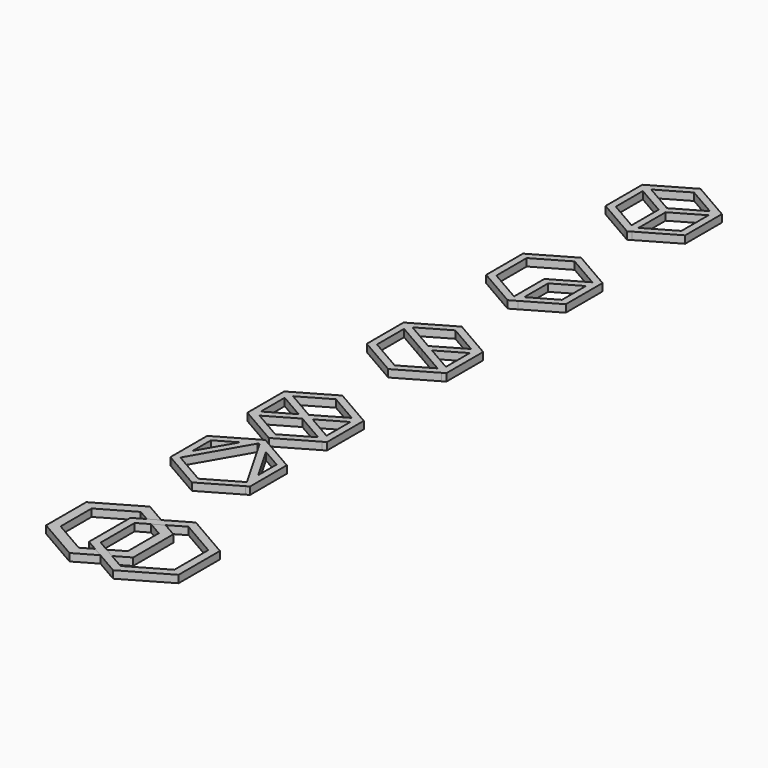
from build123d import *

# Parameters (mm, degrees)
F1_DEPTH  = 3
F3_DEPTH  = 3
F5_DEPTH  = 3
F7_DEPTH  = 3
F9_DEPTH  = 3
F11_DEPTH = 3
F13_DEPTH = 3


with BuildPart() as f1:
    # F0 (on Top) → F1 (new body)
    with BuildSketch(Plane.XY):
        Polygon((13.2, 7.6210235533), (16, 9.237604307), (0, 18.4752086141), (-16, 9.237604307), (-16, -9.237604307), (0, -18.4752086141), (0, -15.2420471066), (-13.2, -7.6210235533), (-13.2, 7.6210235533), (0, 15.2420471066), align=None)
        Polygon((16, 6.0044427996), (16, 9.237604307), (13.2, 7.6210235533), (13.2, 4.3878620458), align=None)
        Polygon((16, -9.237604307), (16, 6.0044427996), (13.2, 4.3878620458), (13.2, -7.6210235533), (2.8, -13.6254663529), (2.8, -16.8586278603), align=None)
        Polygon((0, -18.4752086141), (2.8, -16.8586278603), (2.8, -13.6254663529), (0, -15.2420471066), align=None)
        Polygon((13.2, 4.3878620458), (13.2, 7.6210235533), (0, 0), (0, -15.2420471066), (2.8, -13.6254663529), (2.8, -1.6165807537), align=None)
    extrude(amount=F1_DEPTH)


with BuildPart() as f3:
    # F2 (on Top) → F3 (new body)
    with BuildSketch(Plane.XY):
        Polygon((13.2, -52.3789764467), (16, -50.762395693), (14.6, -49.9541053161), (11.8, -51.5706860698), align=None)
        Polygon((16, -52.3789764467), (16, -50.762395693), (13.2, -52.3789764467), (13.2, -53.9955572004), align=None)
        Polygon((16, -67.6210235533), (16, -52.3789764467), (13.2, -53.9955572004), (13.2, -66.0044427996), align=None)
        Polygon((11.8, -51.5706860698), (14.6, -49.9541053161), (0, -41.5247913859), (-14.6, -49.9541053161), (-11.8, -51.5706860698), (0, -44.7579528934), align=None)
        Polygon((16, -69.237604307), (16, -67.6210235533), (13.2, -66.0044427996), (13.2, -67.6210235533), align=None)
        Polygon((14.6, -70.0458946839), (16, -69.237604307), (13.2, -67.6210235533), (11.8, -68.4293139302), align=None)
        Polygon((-11.8, -51.5706860698), (-14.6, -49.9541053161), (-16, -50.762395693), (-13.2, -52.3789764467), align=None)
        Polygon((0, -78.4752086141), (14.6, -70.0458946839), (11.8, -68.4293139302), (0, -75.2420471066), (-13.2, -67.6210235533), (-13.2, -53.9955572004), (-16, -52.3789764467), (-16, -69.237604307), align=None)
        Polygon((-13.2, -52.3789764467), (-16, -50.762395693), (-16, -52.3789764467), (-13.2, -53.9955572004), align=None)
        Polygon((0, -60), (1.4, -59.1917096231), (0, -58.3834192463), (-1.4, -59.1917096231), align=None)
        Polygon((1.4, -60.8082903769), (0, -60), (-1.4, -59.1917096231), (-2.8, -60), (0, -61.6165807537), align=None)
        Polygon((13.2, -67.6210235533), (13.2, -66.0044427996), (2.8, -60), (1.4, -60.8082903769), align=None)
        Polygon((2.8, -60), (1.4, -59.1917096231), (0, -60), (1.4, -60.8082903769), align=None)
        Polygon((13.2, -53.9955572004), (13.2, -52.3789764467), (1.4, -59.1917096231), (2.8, -60), align=None)
        Polygon((1.4, -59.1917096231), (13.2, -52.3789764467), (11.8, -51.5706860698), (0, -58.3834192463), align=None)
        Polygon((11.8, -68.4293139302), (13.2, -67.6210235533), (1.4, -60.8082903769), (0, -61.6165807537), align=None)
        Polygon((-2.8, -60), (-1.4, -59.1917096231), (-13.2, -52.3789764467), (-13.2, -53.9955572004), align=None)
        Polygon((-1.4, -59.1917096231), (0, -58.3834192463), (-11.8, -51.5706860698), (-13.2, -52.3789764467), align=None)
    extrude(amount=F3_DEPTH)


with BuildPart() as f5:
    # F4 (on Top) → F5 (new body)
    with BuildSketch(Plane.XY):
        Polygon((11.8, 68.4293139302), (14.6, 70.0458946839), (0, 78.4752086141), (-14.6, 70.0458946839), (-11.8, 68.4293139302), (0, 75.2420471066), align=None)
        Polygon((-11.8, 68.4293139302), (-14.6, 70.0458946839), (-16, 69.237604307), (-13.2, 67.6210235533), align=None)
        Polygon((-13.2, 66.0044427996), (-13.2, 67.6210235533), (-16, 69.237604307), (-16, 67.6210235533), align=None)
        Polygon((0, 58.3834192463), (0, 60), (-13.2, 67.6210235533), (-13.2, 66.0044427996), (-1.4, 59.1917096231), align=None)
        Polygon((0, 60), (13.2, 67.6210235533), (11.8, 68.4293139302), (0, 61.6165807537), (-11.8, 68.4293139302), (-13.2, 67.6210235533), align=None)
        Polygon((-13.2, 52.3789764467), (-13.2, 66.0044427996), (-16, 67.6210235533), (-16, 50.762395693), (-1.4, 42.3330817628), (-1.4, 45.5662432703), align=None)
        Polygon((0, 44.7579528934), (0, 58.3834192463), (-1.4, 59.1917096231), (-1.4, 45.5662432703), align=None)
        Polygon((1.4, 45.5662432703), (1.4, 59.1917096231), (0, 58.3834192463), (0, 44.7579528934), align=None)
        Polygon((-1.4, 42.3330817628), (0, 41.5247913859), (0, 44.7579528934), (-1.4, 45.5662432703), align=None)
        Polygon((0, 41.5247913859), (1.4, 42.3330817628), (1.4, 45.5662432703), (0, 44.7579528934), align=None)
        Polygon((16, 50.762395693), (16, 67.6210235533), (13.2, 66.0044427996), (13.2, 52.3789764467), (1.4, 45.5662432703), (1.4, 42.3330817628), align=None)
        Polygon((13.2, 66.0044427996), (13.2, 67.6210235533), (0, 60), (0, 58.3834192463), (1.4, 59.1917096231), align=None)
        Polygon((16, 67.6210235533), (16, 69.237604307), (13.2, 67.6210235533), (13.2, 66.0044427996), align=None)
        Polygon((13.2, 67.6210235533), (16, 69.237604307), (14.6, 70.0458946839), (11.8, 68.4293139302), align=None)
    extrude(amount=F5_DEPTH)


with BuildPart() as f7:
    # F6 (on Top) → F7 (new body)
    with BuildSketch(Plane.XY):
        Polygon((16, -127.6210235533), (16, -112.3789764467), (13.2, -113.9955572004), (13.2, -126.0044427996), align=None)
        Polygon((0, -138.4752086141), (14.6, -130.0458946839), (11.8, -128.4293139302), (0, -135.2420471066), (-11.8, -128.4293139302), (-14.6, -130.0458946839), align=None)
        Polygon((-13.2, -113.9955572004), (-16, -112.3789764467), (-16, -127.6210235533), (-13.2, -126.0044427996), align=None)
        Polygon((11.8, -111.5706860698), (14.6, -109.9541053161), (0, -101.5247913859), (-14.6, -109.9541053161), (-11.8, -111.5706860698), (0, -104.7579528934), align=None)
        Polygon((16, -112.3789764467), (16, -110.762395693), (13.2, -112.3789764467), (13.2, -113.9955572004), align=None)
        Polygon((16, -129.237604307), (16, -127.6210235533), (13.2, -126.0044427996), (13.2, -127.6210235533), align=None)
        Polygon((14.6, -130.0458946839), (16, -129.237604307), (13.2, -127.6210235533), (11.8, -128.4293139302), align=None)
        Polygon((-11.8, -128.4293139302), (-13.2, -127.6210235533), (-16, -129.237604307), (-14.6, -130.0458946839), align=None)
        Polygon((-16, -129.237604307), (-13.2, -127.6210235533), (-13.2, -126.0044427996), (-16, -127.6210235533), align=None)
        Polygon((-13.2, -112.3789764467), (-16, -110.762395693), (-16, -112.3789764467), (-13.2, -113.9955572004), align=None)
        Polygon((-11.8, -111.5706860698), (-14.6, -109.9541053161), (-16, -110.762395693), (-13.2, -112.3789764467), align=None)
        Polygon((13.2, -112.3789764467), (16, -110.762395693), (14.6, -109.9541053161), (11.8, -111.5706860698), align=None)
        Polygon((-13.2, -127.6210235533), (-1.4, -120.8082903769), (-2.8, -120), (-13.2, -126.0044427996), align=None)
        Polygon((0, -121.6165807537), (-1.4, -120.8082903769), (-13.2, -127.6210235533), (-11.8, -128.4293139302), align=None)
        Polygon((-2.8, -120), (-1.4, -119.1917096231), (-13.2, -112.3789764467), (-13.2, -113.9955572004), align=None)
        Polygon((-1.4, -119.1917096231), (0, -118.3834192463), (-11.8, -111.5706860698), (-13.2, -112.3789764467), align=None)
        Polygon((0, -120), (1.4, -119.1917096231), (0, -118.3834192463), (-1.4, -119.1917096231), align=None)
        Polygon((-1.4, -120.8082903769), (0, -120), (-1.4, -119.1917096231), (-2.8, -120), align=None)
        Polygon((1.4, -120.8082903769), (0, -120), (-1.4, -120.8082903769), (0, -121.6165807537), align=None)
        Polygon((2.8, -120), (1.4, -119.1917096231), (0, -120), (1.4, -120.8082903769), align=None)
        Polygon((13.2, -127.6210235533), (13.2, -126.0044427996), (2.8, -120), (1.4, -120.8082903769), align=None)
        Polygon((11.8, -128.4293139302), (13.2, -127.6210235533), (1.4, -120.8082903769), (0, -121.6165807537), align=None)
        Polygon((13.2, -113.9955572004), (13.2, -112.3789764467), (1.4, -119.1917096231), (2.8, -120), align=None)
        Polygon((1.4, -119.1917096231), (13.2, -112.3789764467), (11.8, -111.5706860698), (0, -118.3834192463), align=None)
    extrude(amount=F7_DEPTH)


with BuildPart() as f9:
    # F8 (on Top) → F9 (new body)
    with BuildSketch(Plane.XY):
        Polygon((-5.2248711306, -146.4605912422), (-2.4248711306, -141.610848981), (-16, -149.4484532881), (-16, -165.1236619021), (-13.2, -160.2739196409), (-13.2, -151.0650340418), align=None)
        Polygon((-0.8082903769, -141.610848981), (-1.2124355653, -140.910848981), (-2.4248711306, -141.610848981), (-5.2248711306, -146.4605912422), (-2.8, -145.0605912422), align=None)
        Polygon((-0.8082903769, -141.610848981), (0, -140.210848981), (-1.2124355653, -140.910848981), align=None)
        Polygon((0.8082903769, -141.610848981), (0, -140.210848981), (-0.8082903769, -141.610848981), (0, -143.010848981), align=None)
        Polygon((0, -143.010848981), (-0.8082903769, -141.610848981), (-2.8, -145.0605912422), (-0.3751288694, -143.6605912422), align=None)
        Polygon((0.3751288694, -143.6605912422), (0, -143.010848981), (-0.3751288694, -143.6605912422), (0, -143.4440104885), align=None)
        Polygon((2.8, -145.0605912422), (0.8082903769, -141.610848981), (0, -143.010848981), (0.3751288694, -143.6605912422), align=None)
        Polygon((5.2248711306, -146.4605912422), (2.4248711306, -141.610848981), (1.2124355653, -140.910848981), (0.8082903769, -141.610848981), (2.8, -145.0605912422), align=None)
        Polygon((0.8082903769, -141.610848981), (1.2124355653, -140.910848981), (0, -140.210848981), align=None)
        Polygon((16, -165.1236619021), (16, -149.4484532881), (2.4248711306, -141.610848981), (5.2248711306, -146.4605912422), (13.2, -151.0650340418), (13.2, -160.2739196409), align=None)
        Polygon((13.2, -165.8739196409), (13.2, -163.0739196409), (2.8, -145.0605912422), (0.3751288694, -143.6605912422), align=None)
        Polygon((-0.3751288694, -143.6605912422), (-2.8, -145.0605912422), (-13.2, -163.0739196409), (-13.2, -165.8739196409), align=None)
        Polygon((-13.2, -163.0739196409), (-2.8, -145.0605912422), (-5.2248711306, -146.4605912422), (-13.2, -160.2739196409), align=None)
        Polygon((13.2, -163.0739196409), (13.2, -160.2739196409), (5.2248711306, -146.4605912422), (2.8, -145.0605912422), align=None)
        Polygon((16, -167.9236619021), (16, -165.1236619021), (13.2, -160.2739196409), (13.2, -163.0739196409), align=None)
        Polygon((14.7875644347, -168.6236619021), (16, -167.9236619021), (13.2, -163.0739196409), (13.2, -165.8739196409), align=None)
        Polygon((0, -177.1612662092), (14.7875644347, -168.6236619021), (13.2, -165.8739196409), (13.2, -166.3070811484), (0, -173.9281047017), (-13.2, -166.3070811484), (-13.2, -165.8739196409), (-14.7875644347, -168.6236619021), align=None)
        Polygon((-16, -167.9236619021), (-14.7875644347, -168.6236619021), (-13.2, -165.8739196409), (-13.2, -163.0739196409), align=None)
        Polygon((-16, -165.1236619021), (-16, -167.9236619021), (-13.2, -163.0739196409), (-13.2, -160.2739196409), align=None)
    extrude(amount=F9_DEPTH)


with BuildPart() as f11:
    # F10 (on Top) → F11 (new body)
    with BuildSketch(Plane.XY):
        Polygon((17.5, -228.550556477), (17.5, -208.3432970553), (0, -198.2396673445), (-17.5, -208.3432970553), (-17.5, -228.550556477), (0, -238.6541861878), align=None)
        Polygon((-13.5, -226.2411554002), (-13.5, -210.6526981321), (0, -202.858469498), (13.5, -210.6526981321), (13.5, -226.2411554002), (0, -234.0353840343), align=None, mode=Mode.SUBTRACT)
    extrude(amount=F11_DEPTH)


with BuildPart() as f13:
    # F12 (on face) → F13 (new body)
    with BuildSketch(Plane.XY.offset(3)):
        Polygon((0, -208.0546219208), (0, -228.8392316116), (18, -239.231536457), (36, -228.8392316116), (36, -208.0546219208), (18, -197.6623170753), align=None)
        Polygon((18, -235.5364947342), (3.2, -226.9917107502), (3.2, -209.9021427822), (18, -201.3573587982), (32.8, -209.9021427822), (32.8, -226.9917107502), align=None, mode=Mode.SUBTRACT)
    extrude(amount=-F13_DEPTH)


solid = Compound([f1.part, f3.part, f5.part, f7.part, f9.part, f11.part, f13.part])
